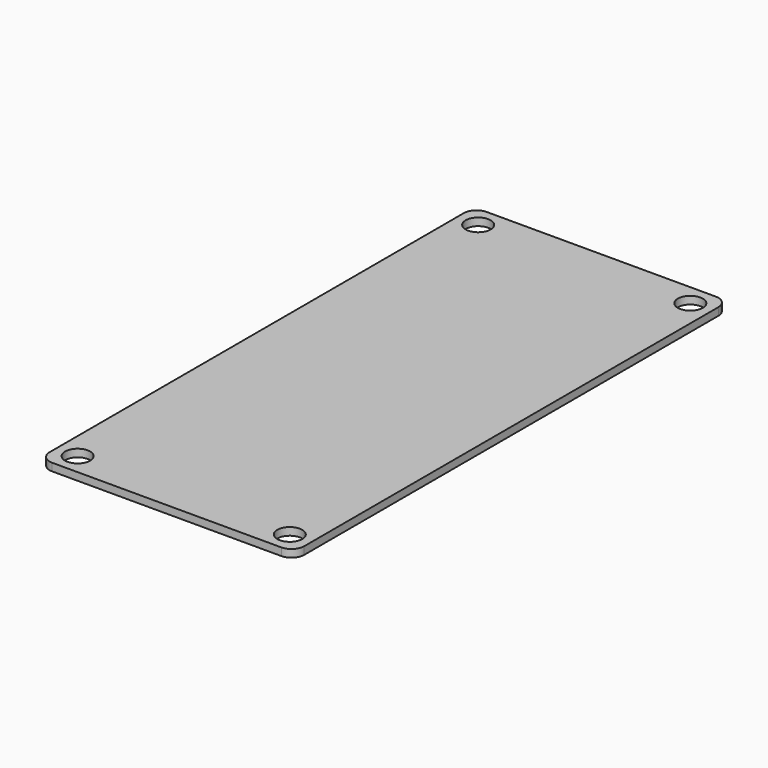
from build123d import *

# Parameters (mm, degrees)
SKETCH_R             = 2.95
PAD_DEPTH            = 1.8
SKETCH_MIRRORED_2_R  = 2.95
PAD_MIRRORED_2_DEPTH = 1.8


with BuildPart() as part:
    # Sketch → Pad (new body)
    with BuildSketch(Plane.XY):
        with BuildLine():
            Line((0, 0), (30, 0))
            Line((30, 0), (30, 61))
            ThreePointArc((30, 61), (29.12132, 63.12132), (27, 64))
            Line((27, 64), (0, 64))
            Line((0, 64), (0, 0))
        make_face()
        with Locations((25, 59)):
            Circle(SKETCH_R, mode=Mode.SUBTRACT)
    pad = extrude(amount=PAD_DEPTH)

    # Sketch Mirrored 2 → Pad Mirrored 2 (add)
    with BuildSketch(Plane(origin=(0, 0, 0), x_dir=(-1, 0, 0), z_dir=(0, 0, -1))):
        with BuildLine():
            Line((0, 0), (30, 0))
            Line((30, 0), (30, 61))
            ThreePointArc((30, 61), (29.12132, 63.12132), (27, 64))
            Line((27, 64), (0, 64))
            Line((0, 64), (0, 0))
        make_face()
        with Locations((25, 59)):
            Circle(SKETCH_MIRRORED_2_R, mode=Mode.SUBTRACT)
    pad_mirrored_2 = extrude(amount=-PAD_MIRRORED_2_DEPTH)

    # Mirrored001: Pad, Pad Mirrored 2 across Sketch H_Axis
    add(pad.mirror(Plane.ZX))
    add(pad_mirrored_2.mirror(Plane.ZX))


solid = part.part
